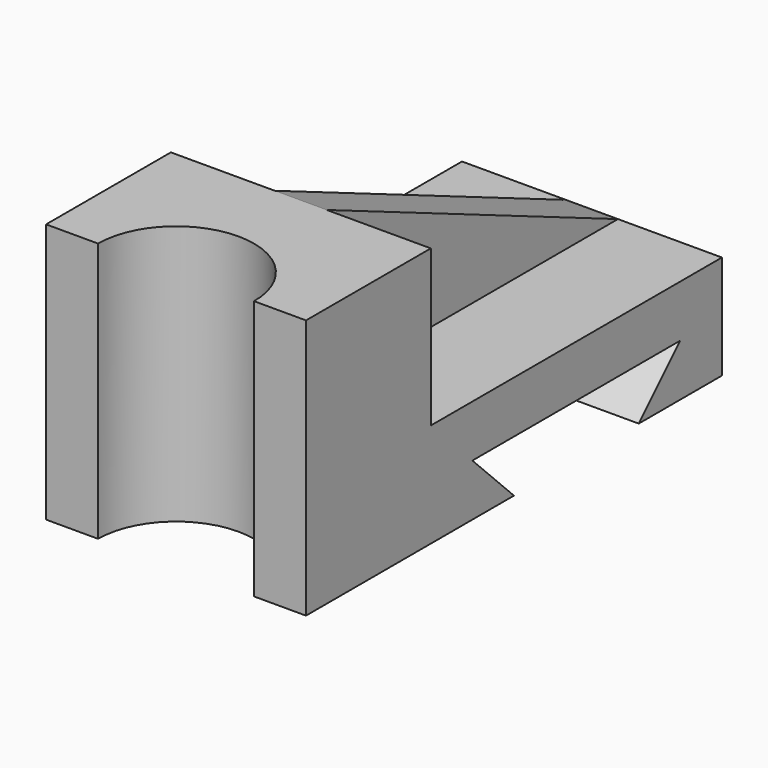
from build123d import *

# Parameters (mm, degrees)
PAD_DEPTH    = 25
SKETCH001_R  = 15
POCKET_DEPTH = 50.001
PAD001_DEPTH = 5


with BuildPart() as part:
    # Sketch → Pad (new body, symmetric)
    with BuildSketch(Plane.YZ):
        Polygon((0, 50), (0, 0), (50, 0), (40, 10), (90, 10), (80, 0), (100, 0), (100, 20), (30, 20), (30, 50), align=None)
    extrude(amount=PAD_DEPTH, both=True)

    # Sketch001 (on Face10 of Pad) → Pocket (cut, through all)
    with BuildSketch(Plane(origin=(0, 0, 50), x_dir=(0, -1, 0), z_dir=(0, 0, 1))):
        Circle(SKETCH001_R)
    extrude(amount=-POCKET_DEPTH, mode=Mode.SUBTRACT)

    # Sketch002 → Pad001 (join, symmetric)
    with BuildSketch(Plane.YZ):
        Polygon((30, 50), (30, 20), (100, 20), align=None)
    extrude(amount=PAD001_DEPTH, both=True)


solid = part.part
